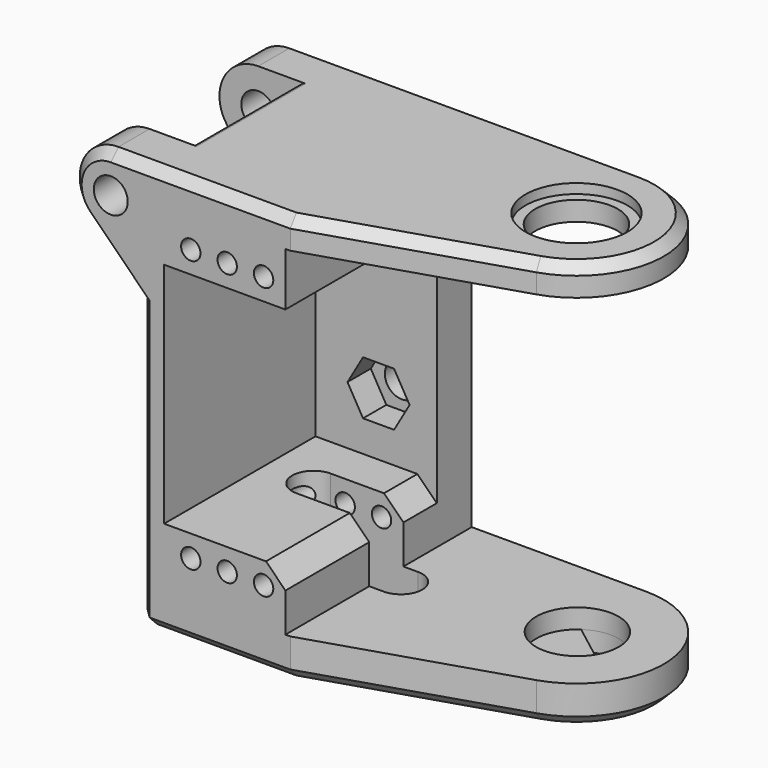
from build123d import *

# Parameters (mm, degrees)
SKETCH016_R            = 4.25
PAD015_DEPTH           = 30
PAD014_DEPTH           = 3
PRISM008_DEPTH         = 10
PRISM008_ROLL_ANGLE    = 90
PAD011_DEPTH           = 15
SKETCH010_R            = 1
PAD010_DEPTH           = 22.5
CYLINDER017_R          = 4.25
CYLINDER017_DEPTH      = 10
CYLINDER016_R          = 5.25
CYLINDER016_DEPTH      = 10
CYLINDER014_R          = 1.75
CYLINDER014_DEPTH      = 36
CYLINDER014_ROLL_ANGLE = -90
PAD004_DEPTH           = 5
CHAMFER002_SIZE        = 1
CYLINDER012_R          = 1.75
CYLINDER012_DEPTH      = 11
CYLINDER012_ROLL_ANGLE = 90
CYLINDER013_R          = 5.5
CYLINDER013_DEPTH      = 14
CYLINDER013_ROLL_ANGLE = -90
BOX010_W               = 35
BOX010_H               = 60
BOX010_DEPTH           = 35
PAD003_DEPTH           = 42
FILLET002_R            = 0.5
CHAMFER003_SIZE        = 1
CHAMFER006_SIZE        = 2
CHAMFER007_SIZE        = 1


with BuildPart() as pad015:
    # Sketch016 → Pad015 (new body)
    with BuildSketch(Plane(origin=(23.25, 34, -10), x_dir=(-0.996195, -0.087156, 0), z_dir=(0, 0, 1))):
        with Locations((47, 7)):
            Circle(SKETCH016_R)
    extrude(amount=PAD015_DEPTH)


with BuildPart() as fusion011:
    # Sketch014 → Pad014 (new body)
    with BuildSketch(Plane(origin=(23.25, 34, -10), x_dir=(-0.996195, -0.087156, 0), z_dir=(0, 0, 1))):
        with BuildLine():
            ThreePointArc((49.709474, 10.274332), (43.52198, 9.442514), (44.839693, 3.340003))
            Line((44.839693, 3.340003), (61.15095, -6.287705))
            ThreePointArc((61.15095, -6.287705), (64.799282, -5.499923), (64.301984, -1.800786))
            Line((49.709474, 10.274332), (64.301984, -1.800786))
        make_face()
    extrude(amount=PAD014_DEPTH)

    # Fusion011: union Pad015
    add(pad015.part)


with BuildPart() as fake_axis_nut_room:
    # Prism008 → Prism008 (new body)
    with BuildSketch(Plane.XY):
        Polygon((3.2, 0), (1.6, 2.771281), (-1.6, 2.771281), (-3.2, 0), (-1.6, -2.771281), (1.6, -2.771281), align=None)
    extrude(amount=PRISM008_DEPTH)


with BuildPart() as fake_axis_nut_room_1:
    # Prism008 roll: moved
    add(fake_axis_nut_room.part.rotate(Axis((0, 0, 0), (1, 0, 0)), PRISM008_ROLL_ANGLE))


with BuildPart() as fake_axis_nut_room_2:
    # Prism008 placement: moved
    add(fake_axis_nut_room_1.part.moved(Location((-47, 25.5, 7))))


with BuildPart() as pad011:
    # Sketch011 → Pad011 (new body)
    with BuildSketch(Plane(origin=(0, 0, -10), x_dir=(1, 0, 0), z_dir=(0, 0, -1))):
        with BuildLine():
            ThreePointArc((-48.5, -22.8), (-50.7, -25), (-48.5, -27.2))
            Line((-48.5, -27.2), (-39.5, -27.2))
            ThreePointArc((-39.5, -27.2), (-37.3, -25), (-39.5, -22.8))
            Line((-48.5, -22.8), (-39.5, -22.8))
        make_face()
    extrude(amount=-PAD011_DEPTH)


with BuildPart() as pad010:
    # Sketch010 → Pad010 (new body)
    with BuildSketch(Plane(origin=(0, 41, 0), x_dir=(-1, 0, 0), z_dir=(0, 1, 0))):
        with Locations((43.25, 26.75)):
            Circle(SKETCH010_R)
        with Locations((50.75, 26.75)):
            Circle(SKETCH010_R)
        with Locations((43.25, -1.25)):
            Circle(SKETCH010_R)
        with Locations((50.75, -1.25)):
            Circle(SKETCH010_R)
        with Locations((47, -1.25)):
            Circle(SKETCH010_R)
        with Locations((47, 26.75)):
            Circle(SKETCH010_R)
        Polygon((40.5, 24.5), (53.5, 24.5), (53.5, 1), (40.5, 1), (30.5, 1), (30.5, 24.5), align=None)
    extrude(amount=-PAD010_DEPTH)


with BuildPart() as cylinder017:
    # Cylinder017 → Cylinder017 (new body)
    with BuildSketch(Plane.XY.offset(-5)):
        Circle(CYLINDER017_R)
    extrude(amount=CYLINDER017_DEPTH)


with BuildPart() as fusion008:
    # Cylinder016 → Cylinder016 (new body)
    with BuildSketch(Plane.XY):
        Circle(CYLINDER016_R)
    extrude(amount=CYLINDER016_DEPTH)

    # Fusion008: union Cylinder017
    add(cylinder017.part)


with BuildPart() as fusion008_1:
    # Fusion008 placement: moved
    add(fusion008.part.moved(Location((-23, 23, 32))))


with BuildPart() as cilindro014:
    # Cylinder014 → Cylinder014 (new body)
    with BuildSketch(Plane.XY):
        Circle(CYLINDER014_R)
    extrude(amount=CYLINDER014_DEPTH)


with BuildPart() as cilindro014_1:
    # Cylinder014 roll: moved
    add(cilindro014.part.rotate(Axis((0, 0, 0), (1, 0, 0)), CYLINDER014_ROLL_ANGLE))


with BuildPart() as cilindro014_2:
    # Cylinder014 placement: moved
    add(cilindro014_1.part.moved(Location((-59, 8, 29))))


with BuildPart() as pad004:
    # Sketch004 → Pad004 (new body)
    with BuildSketch(Plane(origin=(0, 14, 0), x_dir=(-1, 0, 0), z_dir=(0, 1, 0))):
        with BuildLine():
            ThreePointArc((61.828427, 26.171573), (62.695518, 30.530734), (59, 33))
            Line((59, 33), (54, 33))
            Line((54, 33), (54, 18.343146))
            Line((54, 18.343146), (61.828427, 26.171573))
        make_face()
    extrude(amount=PAD004_DEPTH)


with BuildPart() as chamfer002:
    # Clone006 base: copy of Pad004
    add(pad004.part)


with BuildPart() as chamfer002_1:
    # Clone006 placement: moved
    add(chamfer002.part.moved(Location((0, 19, 0))))

    # Fusion006: union Pad004
    add(pad004.part)

    # Chamfer002
    chamfer002_edges = [chamfer002_1.edges().sort_by_distance(p)[0] for p in [
        (-62.695518, 14, 30.530734),
        (-62.695518, 38, 30.530734),
    ]]
    chamfer(chamfer002_edges, length=CHAMFER002_SIZE)


with BuildPart() as cilindro012:
    # Cylinder012 → Cylinder012 (new body)
    with BuildSketch(Plane.XY):
        Circle(CYLINDER012_R)
    extrude(amount=CYLINDER012_DEPTH)


with BuildPart() as cilindro012_1:
    # Cylinder012 roll: moved
    add(cilindro012.part.rotate(Axis((0, 0, 0), (1, 0, 0)), CYLINDER012_ROLL_ANGLE))


with BuildPart() as cilindro012_2:
    # Cylinder012 placement: moved
    add(cilindro012_1.part.moved(Location((-47, 23, 7))))


with BuildPart() as cilindro013:
    # Cylinder013 → Cylinder013 (new body)
    with BuildSketch(Plane.XY):
        Circle(CYLINDER013_R)
    extrude(amount=CYLINDER013_DEPTH)


with BuildPart() as cilindro013_1:
    # Cylinder013 roll: moved
    add(cilindro013.part.rotate(Axis((0, 0, 0), (1, 0, 0)), CYLINDER013_ROLL_ANGLE))


with BuildPart() as cilindro013_2:
    # Cylinder013 placement: moved
    add(cilindro013_1.part.moved(Location((-59, 19, 29))))


with BuildPart() as cubo010:
    # Box010 → Box010 (new body)
    with BuildSketch(Plane(origin=(-41, 0, -5), x_dir=(1, 0, 0), z_dir=(0, 0, 1))):
        with Locations((17.5, 30)):
            Rectangle(BOX010_W, BOX010_H)
    extrude(amount=BOX010_DEPTH)


with BuildPart() as clone_of_bracket:
    # Sketch003 → Pad003 (new body)
    with BuildSketch(Plane.XY.offset(-9)):
        with BuildLine():
            ThreePointArc((-22.999967, 14), (-14.106152, 21.621786), (-20.276052, 31.577885))
            Line((-40.499967, 38), (-20.276052, 31.577885))
            Line((-55.999967, 38), (-40.499967, 38))
            Line((-55.999967, 14), (-55.999967, 38))
            Line((-22.999967, 14), (-55.999967, 14))
        make_face()
    extrude(amount=PAD003_DEPTH)

    # Cut007: cut Cubo010
    add(cubo010.part, mode=Mode.SUBTRACT)

    # Cut008: cut Cilindro013
    add(cilindro013_2.part, mode=Mode.SUBTRACT)

    # Fillet002
    fillet002_edges = [clone_of_bracket.edges().sort_by_distance(p)[0] for p in [
        (-55.999967, 26, 24.390249),
        (-55.225083, 26, 33),
    ]]
    fillet(fillet002_edges, radius=FILLET002_R)

    # Chamfer003
    chamfer003_edges = [clone_of_bracket.edges().sort_by_distance(p)[0] for p in [
        (-55.999967, 14, 12),
        (-55.999967, 26, -9),
        (-55.999967, 38, 12),
        (-39.499967, 14, 33),
        (-14.106152, 21.621786, 33),
        (-48.249967, 38, 33),
        (-48.249967, 38, -9),
    ]]
    chamfer(chamfer003_edges, length=CHAMFER003_SIZE)

    # Cut010: cut Cilindro012
    add(cilindro012_2.part, mode=Mode.SUBTRACT)

    # Fusion007: union Chamfer002
    add(chamfer002_1.part)

    # Cut011: cut Cilindro014
    add(cilindro014_2.part, mode=Mode.SUBTRACT)

    # Cut012: cut Fusion008
    add(fusion008_1.part, mode=Mode.SUBTRACT)

    # Cut015: cut Pad010
    add(pad010.part, mode=Mode.SUBTRACT)

    # Chamfer006
    chamfer006_edges = [clone_of_bracket.edges().sort_by_distance(p)[0] for p in [
        (-41, 28.25, 1),
    ]]
    chamfer(chamfer006_edges, length=CHAMFER006_SIZE)

    # Cut016: cut Pad011
    add(pad011.part, mode=Mode.SUBTRACT)

    # Chamfer007
    chamfer007_edges = [clone_of_bracket.edges().sort_by_distance(p)[0] for p in [
        (-14.106152, 21.621786, -9),
    ]]
    chamfer(chamfer007_edges, length=CHAMFER007_SIZE)

    # Cut017: cut fake_axis_nut_room
    add(fake_axis_nut_room_2.part, mode=Mode.SUBTRACT)

    # Cut020: cut Fusion011
    add(fusion011.part, mode=Mode.SUBTRACT)


with BuildPart() as part_mirroring021:
    # Part__Mirroring021: instance of Clone of bracket
    add(clone_of_bracket.part.mirror(Plane(origin=(0, 0, 0), x_dir=(1, 0, 0), z_dir=(0, 1, 0))))


solid = part_mirroring021.part
